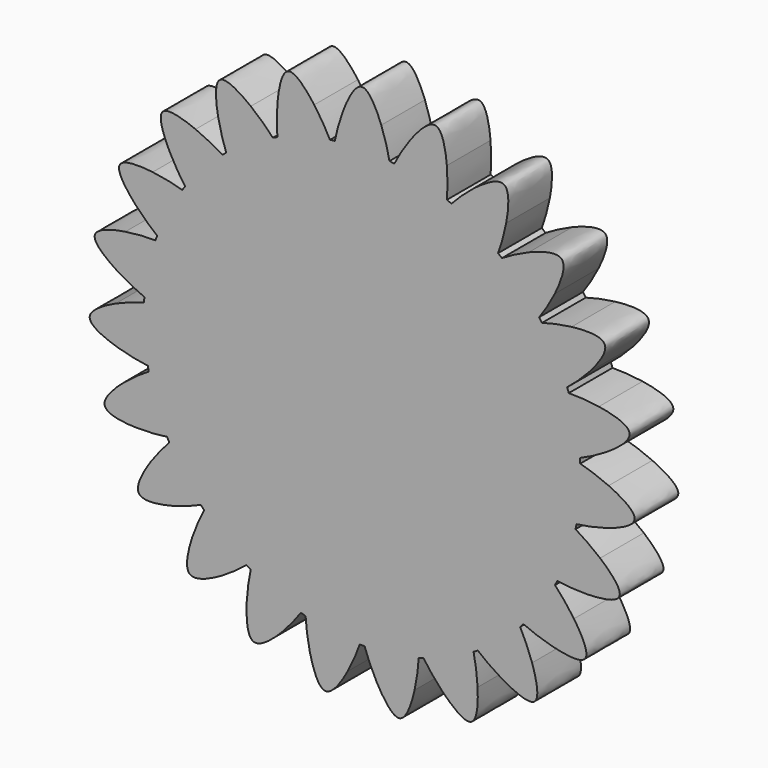
from build123d import *

# Parameters (mm, degrees)
F1_DEPTH = 5
F2_COUNT = 23


with BuildPart() as f1:
    # F0 (on Front) → F1 (new body)
    with BuildSketch(Plane.XZ):
        with BuildLine():
            ThreePointArc((-2.5, 19.843134833), (-13.2287565553, -15), (20, 0))
            ThreePointArc((20, 0), (15, 13.2287565553), (2.5, 19.843134833))
            ThreePointArc((2.5, 19.843134833), (1.2524582509, 19.9607451847), (0, 20))
            ThreePointArc((0, 20), (-1.2524582509, 19.9607451847), (-2.5, 19.843134833))
        make_face()
        with BuildLine():
            ThreePointArc((0, 20), (1.2524582509, 19.9607451847), (2.5, 19.843134833))
            add(Edge.make_bspline(
                [(2.5, 19.843134833), (2.3242988641, 20.6439670579), (2.1485975993, 21.4447988479), (1.75, 22.5)],
                knots=[0, 0, 0, 0, 0.2437390208, 0.2437390208, 0.2437390208, 0.2437390208], degree=3))
            Line((1.75, 22.5), (0, 22.5))
            Line((0, 22.5), (0, 20))
        make_face()
        with BuildLine():
            add(Edge.make_bspline(
                [(-1.75, 22.5), (-2.1485975412, 21.4447987154), (-2.3242986371, 20.6439666039), (-2.5, 19.843134833)],
                knots=[0.7562609792, 0.7562609792, 0.7562609792, 0.7562609792, 1, 1, 1, 1], degree=3))
            ThreePointArc((-2.5, 19.843134833), (-1.2524582509, 19.9607451847), (0, 20))
            Line((0, 20), (0, 22.5))
            Line((0, 22.5), (-1.75, 22.5))
        make_face()
        with BuildLine():
            add(Edge.make_bspline(
                [(0, 25), (-0.6654623492, 25.0000000348), (-1.3309247289, 23.6094116716), (-1.75, 22.5)],
                knots=[0.5, 0.5, 0.5, 0.5, 0.7562609792, 0.7562609792, 0.7562609792, 0.7562609792], degree=3))
            Line((-1.75, 22.5), (0, 22.5))
            Line((0, 22.5), (0, 25))
        make_face()
        with BuildLine():
            Line((0, 22.5), (1.75, 22.5))
            add(Edge.make_bspline(
                [(1.75, 22.5), (1.3309246677, 23.6094115323), (0.6654623492, 24.9999999652), (0, 25)],
                knots=[0.2437390208, 0.2437390208, 0.2437390208, 0.2437390208, 0.5, 0.5, 0.5, 0.5], degree=3))
            Line((0, 25), (0, 22.5))
        make_face()
    extrude(amount=F1_DEPTH)

    # F2: F1 ×23 about axis
    f2_axis = Axis((0, 0, 0), (0, -1, 0))


with BuildPart() as f1_1:
    add(f1.part)
    for i in range(1, F2_COUNT):
        add(f1.part.rotate(f2_axis, i * 360 / F2_COUNT))


solid = f1_1.part
